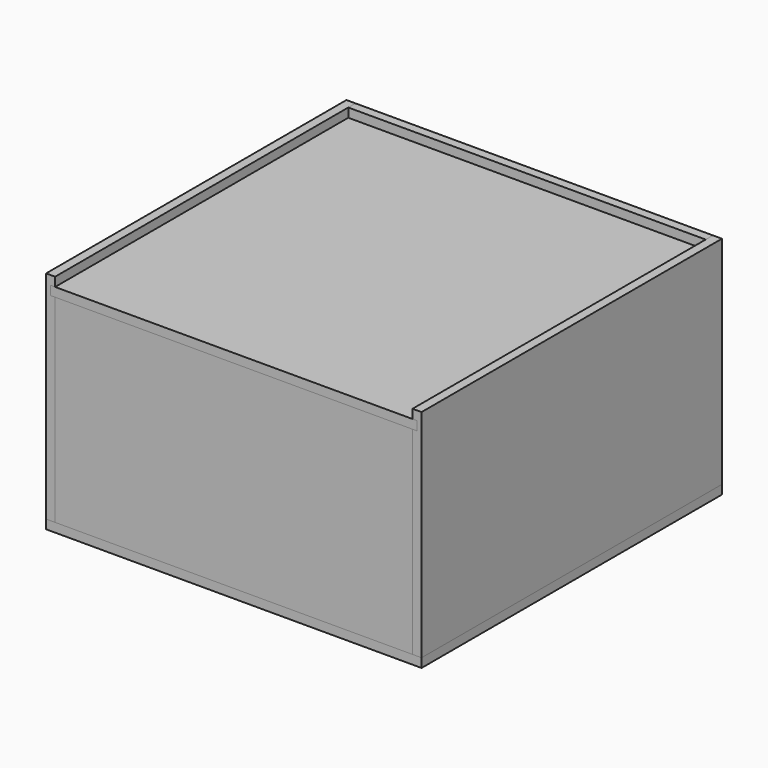
from build123d import *

# Parameters (mm, degrees)
SKETCH_W        = 250
SKETCH_H        = 250
PAD_DEPTH       = 6
SKETCH001_W     = 238
SKETCH001_H     = 132
PAD001_DEPTH    = 6
SKETCH002_W     = 238
SKETCH002_H     = 144
PAD002_DEPTH    = 6
SKETCH007_W     = 238
SKETCH007_H     = 6
POCKET002_DEPTH = 3
SKETCH004_W     = 250
SKETCH004_H     = 144
PAD004_DEPTH    = 6
SKETCH006_W     = 247
SKETCH006_H     = 6
POCKET001_DEPTH = 3
SKETCH008_W     = 244
SKETCH008_H     = 247
PAD005_DEPTH    = 6
SKETCH009_W     = 250
SKETCH009_H     = 144
PAD006_DEPTH    = 6
SKETCH010_W     = 247
SKETCH010_H     = 6
POCKET_DEPTH    = 3


with BuildPart() as bottom_plate:
    # Sketch → Pad (new body)
    with BuildSketch(Plane.XY):
        with Locations((125, 125)):
            Rectangle(SKETCH_W, SKETCH_H)
    extrude(amount=PAD_DEPTH)


with BuildPart() as front_plate:
    # Sketch001 → Pad001 (new body)
    with BuildSketch(Plane(origin=(0, 0, 6), x_dir=(1, 0, 0), z_dir=(0, -1, 0))):
        with Locations((119, 66)):
            Rectangle(SKETCH001_W, SKETCH001_H)
    extrude(amount=-PAD001_DEPTH)


with BuildPart() as front_plate_1:
    # Body001 placement: moved
    add(front_plate.part.moved(Location((6, 0, 0))))


with BuildPart() as back_plate:
    # Sketch002 → Pad002 (new body)
    with BuildSketch(Plane(origin=(0, 250, 6), x_dir=(1, 0, 0), z_dir=(0, -1, 0))):
        with Locations((119, 72)):
            Rectangle(SKETCH002_W, SKETCH002_H)
    extrude(amount=PAD002_DEPTH)

    # Sketch007 (on Face6 of Pad002) → Pocket002 (cut)
    with BuildSketch(Plane.XZ.offset(-244)):
        with Locations((119, 141)):
            Rectangle(SKETCH007_W, SKETCH007_H)
    extrude(amount=-POCKET002_DEPTH, mode=Mode.SUBTRACT)


with BuildPart() as back_plate_1:
    # Body002 placement: moved
    add(back_plate.part.moved(Location((6, 0, 0))))


with BuildPart() as right_plate:
    # Sketch004 → Pad004 (new body)
    with BuildSketch(Plane(origin=(250, 6, 6), x_dir=(0, 1, 0), z_dir=(1, 0, 0))):
        with Locations((125, 72)):
            Rectangle(SKETCH004_W, SKETCH004_H)
    extrude(amount=-PAD004_DEPTH)

    # Sketch006 (on Face6 of Pad004) → Pocket001 (cut)
    with BuildSketch(Plane(origin=(244, 0, 0), x_dir=(0, 1, 0), z_dir=(-1, 0, 0))):
        with Locations((129.5, -141)):
            Rectangle(SKETCH006_W, SKETCH006_H)
    extrude(amount=-POCKET001_DEPTH, mode=Mode.SUBTRACT)


with BuildPart() as right_plate_1:
    # Body004 placement: moved
    add(right_plate.part.moved(Location((0, -6, 0))))


with BuildPart() as cover:
    # Sketch008 → Pad005 (new body)
    with BuildSketch(Plane.XY):
        with Locations((122, 123.5)):
            Rectangle(SKETCH008_W, SKETCH008_H)
    extrude(amount=PAD005_DEPTH)


with BuildPart() as cover_1:
    # Body005 placement: moved
    add(cover.part.moved(Location((3, 0, 138))))


with BuildPart() as left_plate:
    # Sketch009 → Pad006 (new body)
    with BuildSketch(Plane.YZ):
        with Locations((125, 72)):
            Rectangle(SKETCH009_W, SKETCH009_H)
    extrude(amount=PAD006_DEPTH)

    # Sketch010 (on Face6 of Pad006) → Pocket (cut)
    with BuildSketch(Plane.YZ.offset(6)):
        with Locations((123.5, 135)):
            Rectangle(SKETCH010_W, SKETCH010_H)
    extrude(amount=-POCKET_DEPTH, mode=Mode.SUBTRACT)


with BuildPart() as left_plate_1:
    # Body006 placement: moved
    add(left_plate.part.moved(Location((0, 0, 6))))


solid = Compound([bottom_plate.part, front_plate_1.part, back_plate_1.part, right_plate_1.part, cover_1.part, left_plate_1.part])
